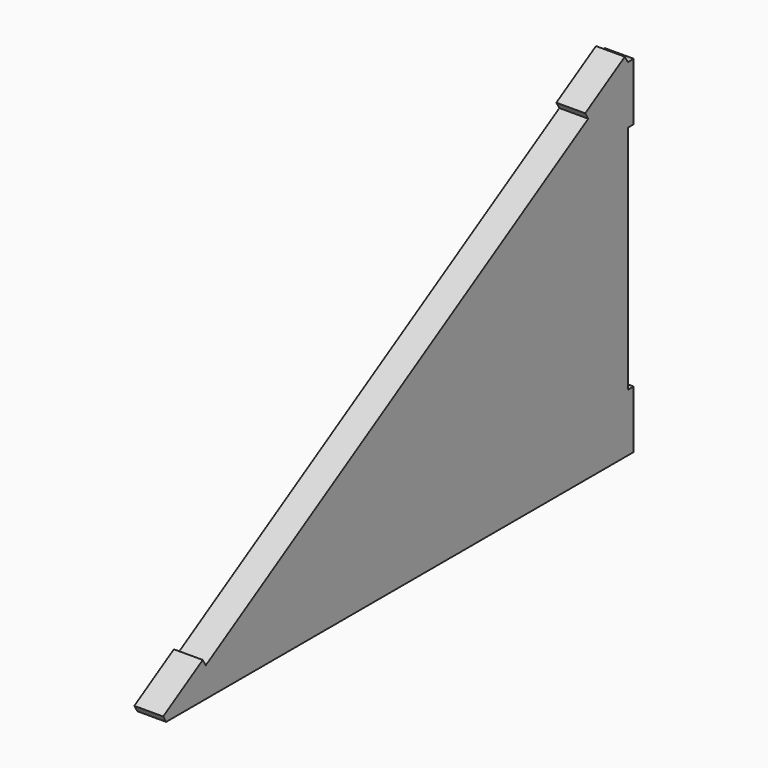
from build123d import *

# Parameters (mm, degrees)
F0_W     = 6.477
F0_H     = 50.8
F1_DEPTH = 25.4


with BuildPart() as f1:
    # F0 (on Right) → F1 (new body)
    with BuildSketch(Plane.YZ):
        Polygon((43.560641, 26.136384), (0, 0), (508, 0), (508, 50.8), (508, 254), (508, 304.8), (464.439359, 278.663616), align=None)
        Polygon((-3.332389, 5.553982), (0, 0), (43.560641, 26.136384), (40.228252, 31.690366), align=None)
        with Locations((511.2385, 25.4)):
            Rectangle(F0_W, F0_H)
        Polygon((461.10697, 284.217597), (464.439359, 278.663616), (508, 304.8), (504.667611, 310.353982), align=None)
        with Locations((511.2385, 279.4)):
            Rectangle(F0_W, F0_H)
    extrude(amount=F1_DEPTH)


solid = f1.part
